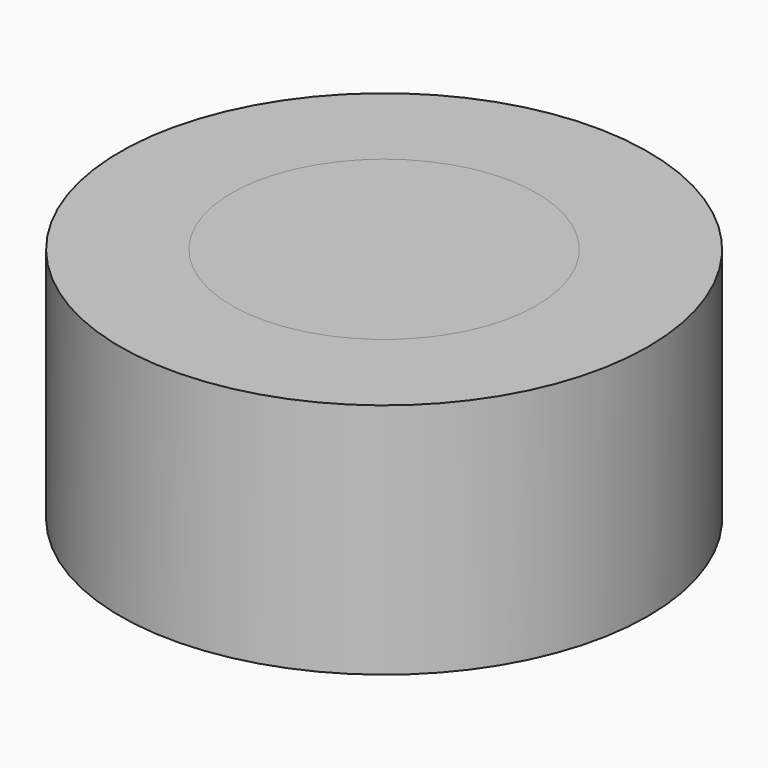
from build123d import *

# Parameters (mm, degrees)
F0_R     = 18.620055
F1_DEPTH = 4
F2_R     = 32.236619
F2_R_2   = 18.620055
F3_DEPTH = 28.956


with BuildPart() as f1:
    # F0 (on Top) → F1 (new body)
    with BuildSketch(Plane.XY):
        Circle(F0_R)
    extrude(amount=F1_DEPTH)


with BuildPart() as f3:
    # F2 (on face) → F3 (new body)
    with BuildSketch(Plane.XY.offset(4)):
        Circle(F2_R)
        Circle(F2_R_2, mode=Mode.SUBTRACT)
    extrude(amount=-F3_DEPTH)


solid = Compound([f1.part, f3.part])
